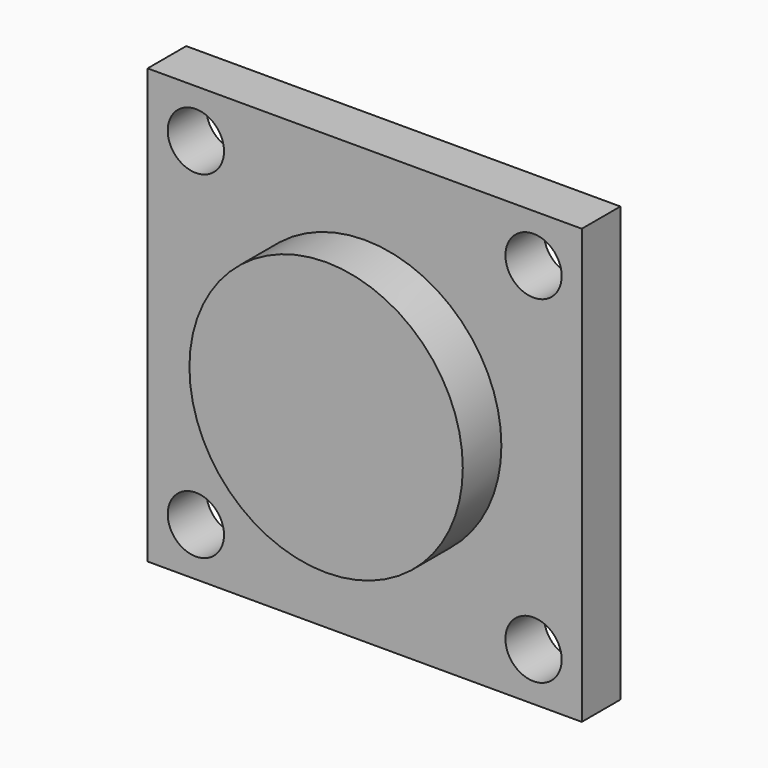
from build123d import *

# Parameters (mm, degrees)
F0_W     = 27
F0_H     = 27
F0_R     = 1.75
F1_DEPTH = 3
F2_R     = 8.5
F3_DEPTH = 3


with BuildPart() as f1:
    # F0 (on Front) → F1 (new body)
    with BuildSketch(Plane.XZ):
        Rectangle(F0_W, F0_H)
        with Locations((-10.5, -10.5)):
            Circle(F0_R, mode=Mode.SUBTRACT)
        with Locations((10.5, -10.5)):
            Circle(F0_R, mode=Mode.SUBTRACT)
        with Locations((-10.5, 10.5)):
            Circle(F0_R, mode=Mode.SUBTRACT)
        with Locations((10.5, 10.5)):
            Circle(F0_R, mode=Mode.SUBTRACT)
    extrude(amount=F1_DEPTH)

    # F2 (on face) → F3 (join)
    with BuildSketch(Plane.XZ.offset(3)):
        Circle(F2_R)
    extrude(amount=F3_DEPTH)


solid = f1.part
